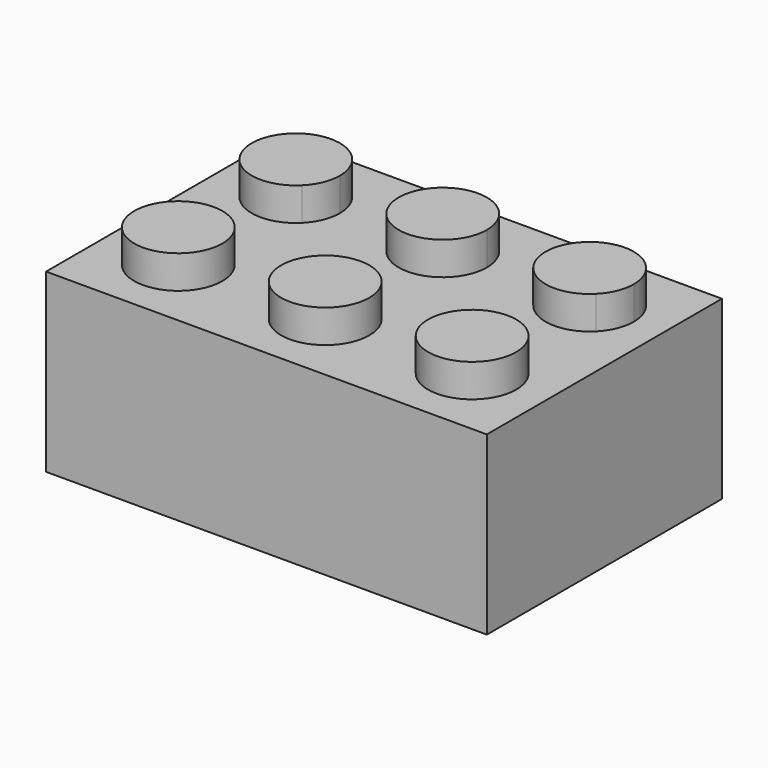
from build123d import *

# Parameters (mm, degrees)
F0_W     = 24
F0_H     = 16
F1_DEPTH = 9.6
F2_R     = 2.4
F3_DEPTH = 1.8


with BuildPart() as f1:
    # F0 (on Top) → F1 (new body)
    with BuildSketch(Plane.XY):
        with Locations((-12, 8)):
            Rectangle(F0_W, F0_H)
    extrude(amount=F1_DEPTH)

    # F2 (on face) → F3 (join)
    with BuildSketch(Plane.XY.offset(9.6)):
        with BuildLine():
            Line((-18.3029437252, 10.3029437252), (-21.6970562748, 13.6970562748))
            ThreePointArc((-21.6970562748, 13.6970562748), (-21.6970562748, 10.3029437252), (-18.3029437252, 10.3029437252))
        make_face()
        with BuildLine():
            ThreePointArc((-17.6, 12), (-19.0815597623, 14.217310878), (-21.6970562748, 13.6970562748))
            Line((-21.6970562748, 13.6970562748), (-18.3029437252, 10.3029437252))
            ThreePointArc((-18.3029437252, 10.3029437252), (-17.782689122, 11.0815597623), (-17.6, 12))
        make_face()
        with BuildLine():
            Line((-13.6970562748, 10.3029437252), (-10.3029437252, 13.6970562748))
            ThreePointArc((-10.3029437252, 13.6970562748), (-13.6970562748, 13.6970562748), (-13.6970562748, 10.3029437252))
        make_face()
        with BuildLine():
            ThreePointArc((-9.6, 12), (-9.782689122, 12.9184402377), (-10.3029437252, 13.6970562748))
            Line((-10.3029437252, 13.6970562748), (-13.6970562748, 10.3029437252))
            ThreePointArc((-13.6970562748, 10.3029437252), (-11.0815597623, 9.782689122), (-9.6, 12))
        make_face()
        with BuildLine():
            ThreePointArc((-1.6, 12), (-3.0815597623, 14.217310878), (-5.6970562748, 13.6970562748))
            Line((-5.6970562748, 13.6970562748), (-2.3029437252, 10.3029437252))
            ThreePointArc((-2.3029437252, 10.3029437252), (-1.782689122, 11.0815597623), (-1.6, 12))
        make_face()
        with BuildLine():
            Line((-2.3029437252, 10.3029437252), (-5.6970562748, 13.6970562748))
            ThreePointArc((-5.6970562748, 13.6970562748), (-5.6970562748, 10.3029437252), (-2.3029437252, 10.3029437252))
        make_face()
        with Locations((-12, 4)):
            Circle(F2_R)
        with Locations((-4, 4)):
            Circle(F2_R)
        with Locations((-20, 4)):
            Circle(F2_R)
    extrude(amount=F3_DEPTH)


solid = f1.part
